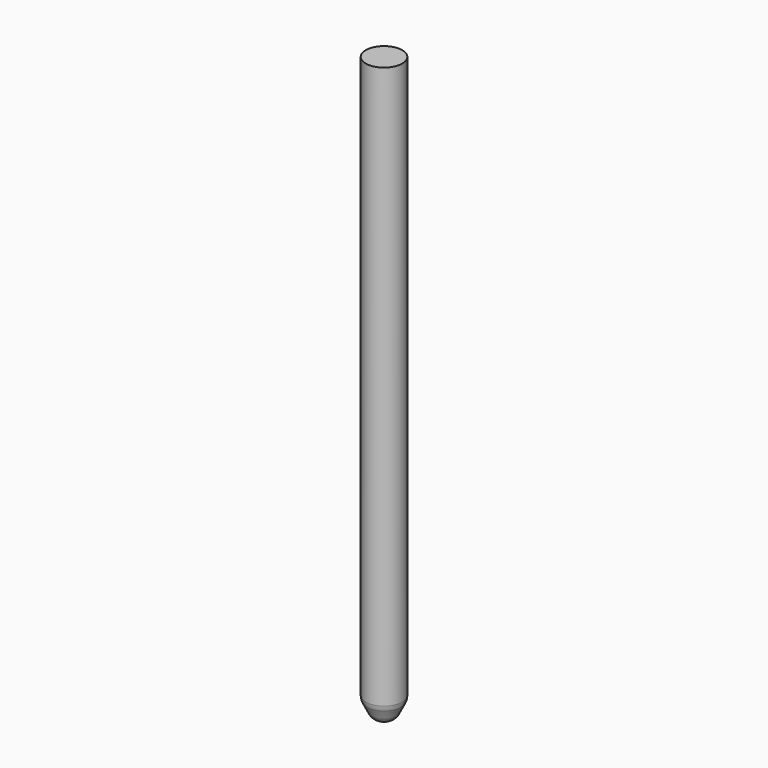
from build123d import *

# Parameters (mm, degrees)
SKETCH039_R      = 0.5
PAD005_DEPTH     = 16
CHAMFER009_SIZE2 = 0.25
CHAMFER009_SIZE  = 0.5
FILLET007_R      = 0.3


with BuildPart() as part:
    # Sketch039 → Pad005 (new body)
    with BuildSketch(Plane.XY):
        Circle(SKETCH039_R)
    extrude(amount=PAD005_DEPTH)

    # Chamfer009
    chamfer009_edges = [part.edges().sort_by_distance(p)[0] for p in [
        (-0.5, 0, 0),
    ]]
    chamfer009_side = part.faces().sort_by_distance((-0.5, 0, 8))[0]
    chamfer(chamfer009_edges, length=CHAMFER009_SIZE, length2=CHAMFER009_SIZE2, reference=chamfer009_side)

    # Fillet007
    fillet007_edges = [part.edges().sort_by_distance(p)[0] for p in [
        (-0.5, 0, 0.5),
        (-0.25, 0, 0),
    ]]
    fillet(fillet007_edges, radius=FILLET007_R)


with BuildPart() as part_1:
    # Body003 placement: moved
    add(part.part.moved(Location((72, -4, 4))))


with BuildPart() as part_2:
    # Clone placement: moved
    add(part_1.part.moved(Location((-72, 4, -4))))


with BuildPart() as part_3:
    # Body004 placement: moved
    add(part_2.part.moved(Location((72, 4, 4))))


solid = part_3.part
